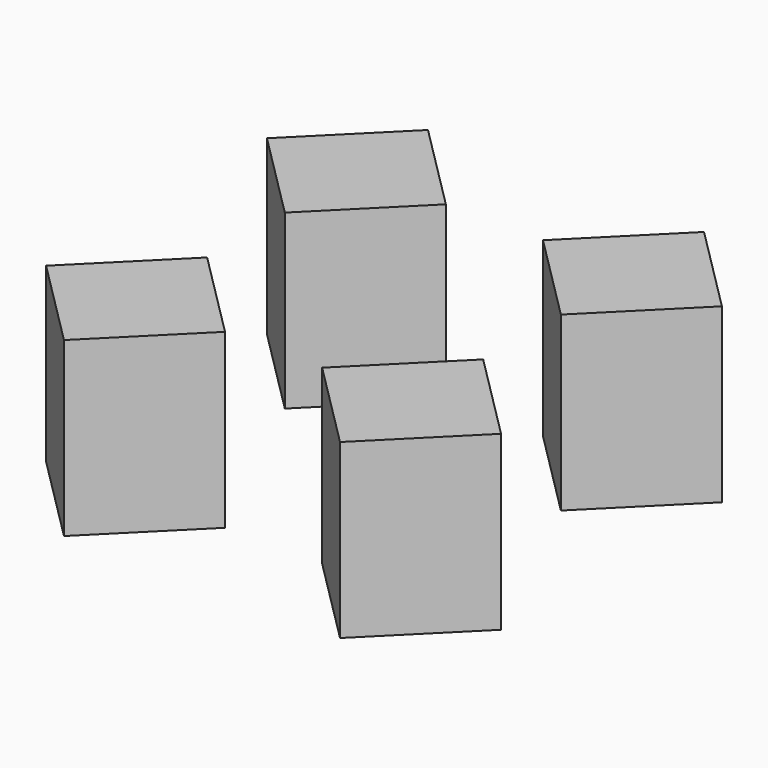
from build123d import *

# Parameters (mm, degrees)
BOX077_W               = 11
BOX077_H               = 11
BOX077_DEPTH           = 15
BOX077_PLACEMENT_ANGLE = 45
BOX079_W               = 11
BOX079_H               = 11
BOX079_DEPTH           = 15
BOX079_PLACEMENT_ANGLE = 45
BOX080_W               = 11
BOX080_H               = 11
BOX080_DEPTH           = 15
BOX080_PLACEMENT_ANGLE = 45
BOX078_W               = 11
BOX078_H               = 11
BOX078_DEPTH           = 15
BOX078_PLACEMENT_ANGLE = 45


with BuildPart() as cube061:
    # Box077 → Box077 (new body)
    with BuildSketch(Plane.XY):
        with Locations((5.5, 5.5)):
            Rectangle(BOX077_W, BOX077_H)
    extrude(amount=BOX077_DEPTH)


with BuildPart() as cube061_1:
    # Box077 placement: moved
    add(cube061.part.moved(Location((8, 24, -3))).rotate(Axis((8, 24, -3), (0, 0, 1)), BOX077_PLACEMENT_ANGLE))


with BuildPart() as cube063:
    # Box079 → Box079 (new body)
    with BuildSketch(Plane.XY):
        with Locations((5.5, 5.5)):
            Rectangle(BOX079_W, BOX079_H)
    extrude(amount=BOX079_DEPTH)


with BuildPart() as cube063_1:
    # Box079 placement: moved
    add(cube063.part.moved(Location((32, 0, -3))).rotate(Axis((32, 0, -3), (0, 0, 1)), BOX079_PLACEMENT_ANGLE))


with BuildPart() as cube064:
    # Box080 → Box080 (new body)
    with BuildSketch(Plane.XY):
        with Locations((5.5, 5.5)):
            Rectangle(BOX080_W, BOX080_H)
    extrude(amount=BOX080_DEPTH)


with BuildPart() as cube064_1:
    # Box080 placement: moved
    add(cube064.part.moved(Location((32, 24, -3))).rotate(Axis((32, 24, -3), (0, 0, 1)), BOX080_PLACEMENT_ANGLE))


with BuildPart() as fusion022:
    # Box078 → Box078 (new body)
    with BuildSketch(Plane.XY):
        with Locations((5.5, 5.5)):
            Rectangle(BOX078_W, BOX078_H)
    extrude(amount=BOX078_DEPTH)


with BuildPart() as fusion022_1:
    # Box078 placement: moved
    add(fusion022.part.moved(Location((8, 0, -3))).rotate(Axis((8, 0, -3), (0, 0, 1)), BOX078_PLACEMENT_ANGLE))

    # Fusion022: union Cube061, Cube063, Cube064
    add(cube061_1.part)
    add(cube063_1.part)
    add(cube064_1.part)


solid = fusion022_1.part
